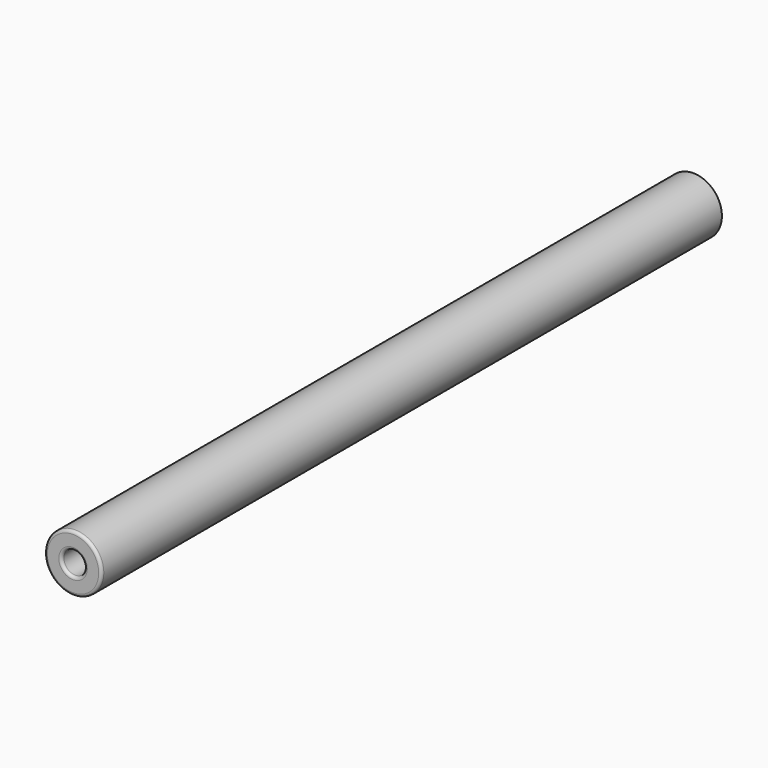
from build123d import *

# Parameters (mm, degrees)
F0_R     = 2.5
F1_DEPTH = 68
F2_R     = 1
F3_DEPTH = 10
F4_R     = 0.25


with BuildPart() as f1:
    # F0 (on Front) → F1 (new body)
    with BuildSketch(Plane.XZ):
        Circle(F0_R)
    extrude(amount=F1_DEPTH)

    # F2 (on face) → F3 (cut)
    with BuildSketch(Plane.XZ.offset(68)):
        Circle(F2_R)
    extrude(amount=-F3_DEPTH, mode=Mode.SUBTRACT)

    # F4
    f4_edges = [f1.edges().sort_by_distance(p)[0] for p in [
        (-2.5, -68, 0),
        (-1, -68, 0),
    ]]
    fillet(f4_edges, radius=F4_R)


solid = f1.part
